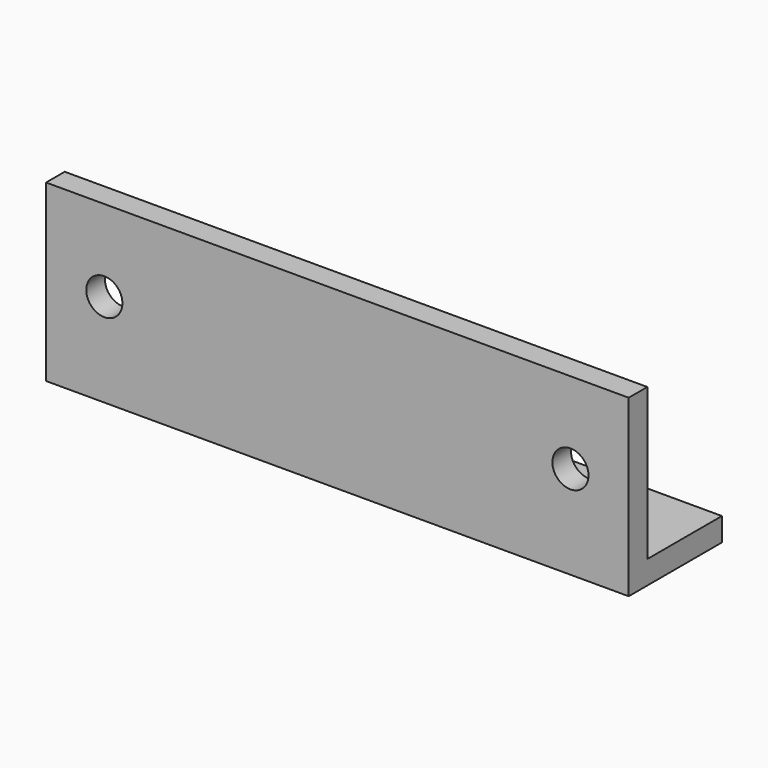
from build123d import *

# Parameters (mm, degrees)
PAD041_DEPTH    = 50
SKETCH243_R     = 1.55
POCKET202_DEPTH = 15.001
SKETCH244_R     = 1.55
POCKET203_DEPTH = 10.001


with BuildPart() as part:
    # Sketch242 → Pad041 (new body)
    with BuildSketch(Plane.YZ):
        Polygon((0, 0), (0, 15), (2, 15), (2, 2), (10, 2), (10, 0), align=None)
    extrude(amount=PAD041_DEPTH)

    # Sketch243 (on Face6 of Pad041) → Pocket202 (cut, through all)
    with BuildSketch(Plane.YX):
        with Locations((5, 38)):
            Circle(SKETCH243_R)
        with Locations((5, 12)):
            Circle(SKETCH243_R)
    extrude(amount=-POCKET202_DEPTH, mode=Mode.SUBTRACT)

    # Sketch244 (on Face1 of Pocket202) → Pocket203 (cut, through all)
    with BuildSketch(Plane(origin=(0, 0, 0), x_dir=(0, 0, -1), z_dir=(0, -1, 0))):
        with Locations((-8, 45)):
            Circle(SKETCH244_R)
        with Locations((-8, 5)):
            Circle(SKETCH244_R)
    extrude(amount=-POCKET203_DEPTH, mode=Mode.SUBTRACT)


with BuildPart() as part_1:
    # Body042 placement: moved
    add(part.part.moved(Location((60, -10, 18))))


solid = part_1.part
